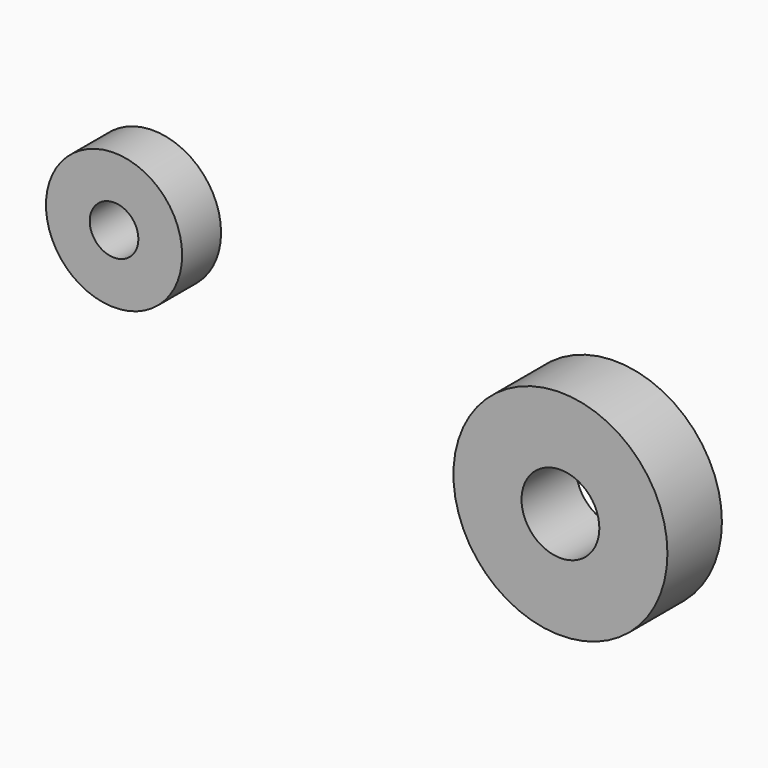
from build123d import *

# Parameters (mm, degrees)
F0_R     = 7
F0_R_2   = 2.5
F1_DEPTH = 5
F0_R_3   = 11
F0_R_4   = 4
F2_DEPTH = 7


with BuildPart() as f1:
    # F0 (on Front) → F1 (new body)
    with BuildSketch(Plane.XZ):
        Circle(F0_R)
        Circle(F0_R_2, mode=Mode.SUBTRACT)
    extrude(amount=F1_DEPTH)


with BuildPart() as f2:
    # F0 (on Front) → F2 (new body)
    with BuildSketch(Plane.XZ):
        with Locations((47.484625, -9.427176)):
            Circle(F0_R_3)
        with Locations((47.484625, -9.427176)):
            Circle(F0_R_4, mode=Mode.SUBTRACT)
    extrude(amount=F2_DEPTH)


solid = Compound([f1.part, f2.part])
